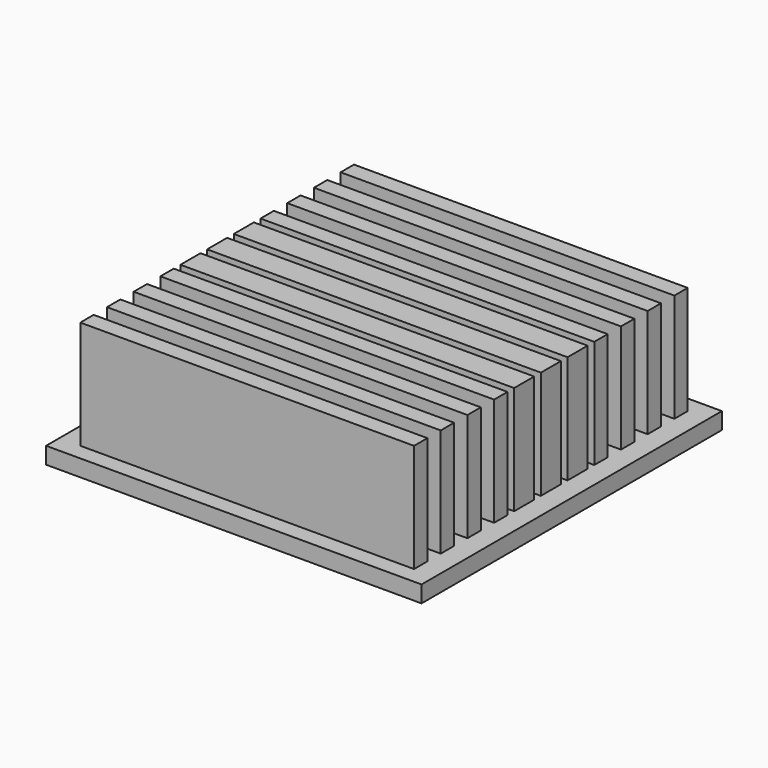
from build123d import *

# Parameters (mm, degrees)
F0_W     = 45
F0_H     = 45
F1_DEPTH = 15
F2_W     = 45
F2_H     = 45
F2_W_2   = 40
F2_H_2   = 2
F3_DEPTH = 13


with BuildPart() as f1:
    # F0 (on Top) → F1 (new body)
    with BuildSketch(Plane.XY):
        Rectangle(F0_W, F0_H)
    extrude(amount=F1_DEPTH)

    # F2 (on face) → F3 (cut)
    with BuildSketch(Plane.XY.offset(15)):
        Rectangle(F2_W, F2_H)
        with Locations((0, -19.5)):
            Rectangle(F2_W_2, F2_H_2, mode=Mode.SUBTRACT)
        with Locations((0, -15.5)):
            Rectangle(F2_W_2, F2_H_2, mode=Mode.SUBTRACT)
        with Locations((0, -11.5)):
            Rectangle(F2_W_2, F2_H_2, mode=Mode.SUBTRACT)
        with Locations((0, -7.5)):
            Rectangle(F2_W_2, F2_H_2, mode=Mode.SUBTRACT)
        Polygon((-20, -4.5), (-20, -3.5), (-20, -2.5), (20, -2.5), (20, -3.5), (20, -4.5), (20, -5.5), (-20, -5.5), align=None, mode=Mode.SUBTRACT)
        Polygon((-20, -0.5), (-20, 0.5), (-20, 1.5), (20, 1.5), (20, 0.5), (20, -0.5), (20, -1.5), (-20, -1.5), align=None, mode=Mode.SUBTRACT)
        Polygon((-20, 3.5), (-20, 4.5), (-20, 5.5), (20, 5.5), (20, 4.5), (20, 3.5), (20, 2.5), (-20, 2.5), align=None, mode=Mode.SUBTRACT)
        with Locations((0, 7.5)):
            Rectangle(F2_W_2, F2_H_2, mode=Mode.SUBTRACT)
        with Locations((0, 11.5)):
            Rectangle(F2_W_2, F2_H_2, mode=Mode.SUBTRACT)
        with Locations((0, 15.5)):
            Rectangle(F2_W_2, F2_H_2, mode=Mode.SUBTRACT)
        with Locations((0, 19.5)):
            Rectangle(F2_W_2, F2_H_2, mode=Mode.SUBTRACT)
    extrude(amount=-F3_DEPTH, mode=Mode.SUBTRACT)


solid = f1.part
